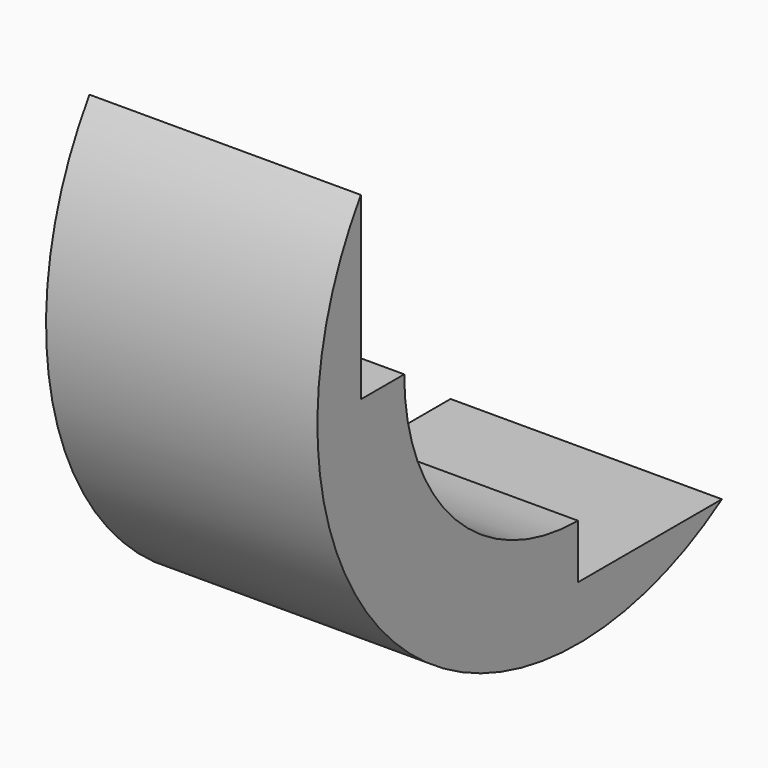
from build123d import *

# Parameters (mm, degrees)
BOX034_W      = 5
BOX034_H      = 10
BOX034_DEPTH  = 8
BOX033_W      = 5
BOX033_H      = 8
BOX033_DEPTH  = 10
TUBE014_R     = 6
TUBE014_R_2   = 4
TUBE014_DEPTH = 5


with BuildPart() as cube034:
    # Box034 → Box034 (new body)
    with BuildSketch(Plane(origin=(0, -2, 3), x_dir=(1, 0, 0), z_dir=(0, 0, 1))):
        with Locations((2.5, 5)):
            Rectangle(BOX034_W, BOX034_H)
    extrude(amount=BOX034_DEPTH)


with BuildPart() as cube033:
    # Box033 → Box033 (new body)
    with BuildSketch(Plane(origin=(0, 3, -2), x_dir=(1, 0, 0), z_dir=(0, 0, 1))):
        with Locations((2.5, 4)):
            Rectangle(BOX033_W, BOX033_H)
    extrude(amount=BOX033_DEPTH)


with BuildPart() as cut038:
    # Tube014 → Tube014 (new body)
    with BuildSketch(Plane(origin=(0, 3, 3), x_dir=(0, 0, -1), z_dir=(1, 0, 0))):
        Circle(TUBE014_R)
        Circle(TUBE014_R_2, mode=Mode.SUBTRACT)
    extrude(amount=TUBE014_DEPTH)

    # Cut037: cut Cube033
    add(cube033.part, mode=Mode.SUBTRACT)

    # Cut038: cut Cube034
    add(cube034.part, mode=Mode.SUBTRACT)


solid = cut038.part
